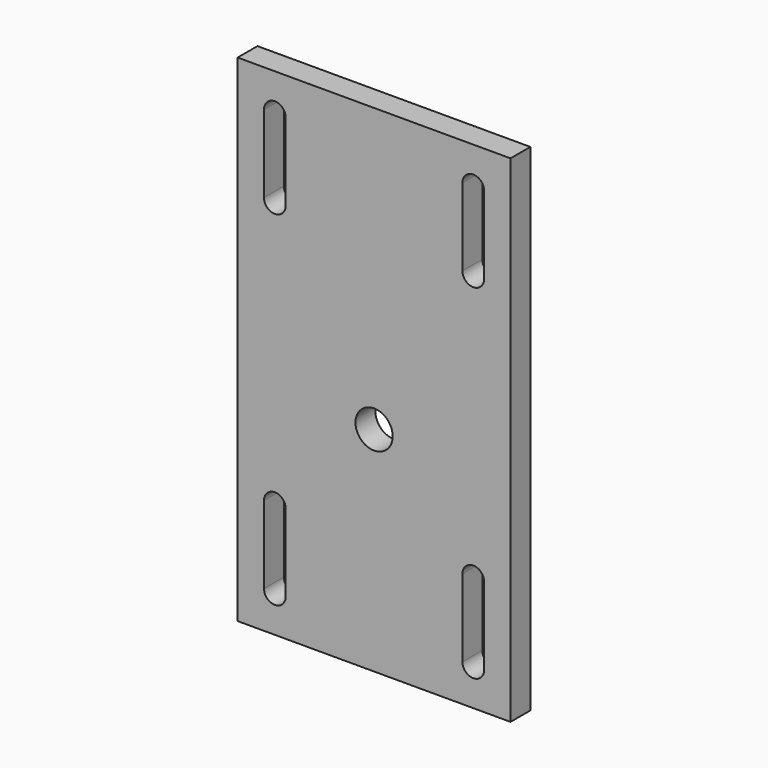
from build123d import *

# Parameters (mm, degrees)
F0_W     = 139.7
F0_H     = 254
F1_DEPTH = 12.7
F2_R     = 9.525
F3_DEPTH = 25.4


with BuildPart() as f1:
    # F0 (on Front) → F1 (new body)
    with BuildSketch(Plane.XZ):
        Rectangle(F0_W, F0_H)
        with BuildLine():
            Line((-56.356148, -107.916253), (-56.35625, -68.262514))
            ThreePointArc((-56.35625, -68.262514), (-50.8, -62.70625), (-45.24375, -68.262514))
            Line((-45.24375, -68.262514), (-45.24375, -107.95))
            ThreePointArc((-45.24375, -107.95), (-50.783112, -113.506224), (-56.356147, -107.983775))
            Line((-56.356147, -107.983775), (-56.356148, -107.916253))
        make_face(mode=Mode.SUBTRACT)
        with BuildLine():
            ThreePointArc((45.24375, -68.262514), (50.8, -62.70625), (56.35625, -68.262514))
            Line((56.35625, -68.262514), (56.356148, -107.916253))
            Line((56.356148, -107.916253), (56.356147, -107.983775))
            ThreePointArc((56.356147, -107.983775), (50.783112, -113.506224), (45.24375, -107.95))
            Line((45.24375, -107.95), (45.24375, -68.262514))
        make_face(mode=Mode.SUBTRACT)
        with BuildLine():
            ThreePointArc((-56.356147, 107.983775), (-50.783112, 113.506224), (-45.24375, 107.95))
            Line((-45.24375, 107.95), (-45.24375, 68.262514))
            ThreePointArc((-45.24375, 68.262514), (-50.8, 62.70625), (-56.35625, 68.262514))
            Line((-56.35625, 68.262514), (-56.356148, 107.916253))
            ThreePointArc((-56.356148, 107.916253), (-56.35625, 107.950014), (-56.356147, 107.983775))
        make_face(mode=Mode.SUBTRACT)
        with BuildLine():
            Line((45.24375, 68.262514), (45.24375, 107.95))
            ThreePointArc((45.24375, 107.95), (50.783112, 113.506224), (56.356147, 107.983775))
            ThreePointArc((56.356147, 107.983775), (56.35625, 107.950014), (56.356148, 107.916253))
            Line((56.356148, 107.916253), (56.35625, 68.262514))
            ThreePointArc((56.35625, 68.262514), (50.8, 62.70625), (45.24375, 68.262514))
        make_face(mode=Mode.SUBTRACT)
    extrude(amount=F1_DEPTH)

    # F2 (on face) → F3 (cut)
    with BuildSketch(Plane.XZ.offset(12.7)):
        with Locations((0, -17.903471)):
            Circle(F2_R)
    extrude(amount=-F3_DEPTH, mode=Mode.SUBTRACT)


solid = f1.part
